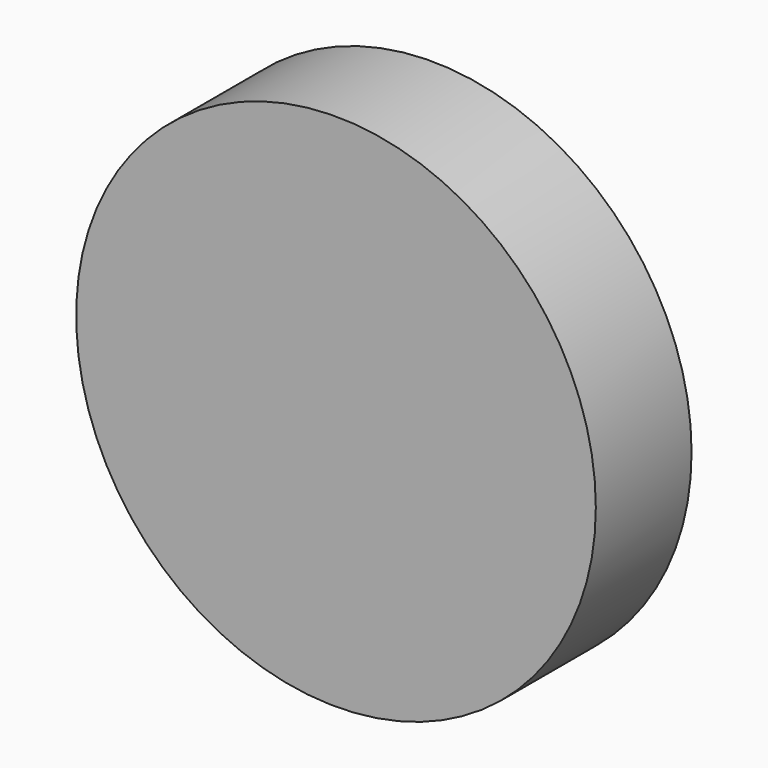
from build123d import *

# Parameters (mm, degrees)
F0_R     = 55.140149
F1_DEPTH = 25.4
F2_W     = 41.272126
F2_H     = 42.177219
F3_DEPTH = 25.4


with BuildPart() as f1:
    # F0 (on Front) → F1 (new body)
    with BuildSketch(Plane.XZ):
        Circle(F0_R)
    extrude(amount=F1_DEPTH)

    # F2 (on Front) → F3 (join)
    with BuildSketch(Plane.XZ):
        with Locations((1.448145, -1.538654)):
            Rectangle(F2_W, F2_H)
    extrude(amount=F3_DEPTH)


solid = f1.part
